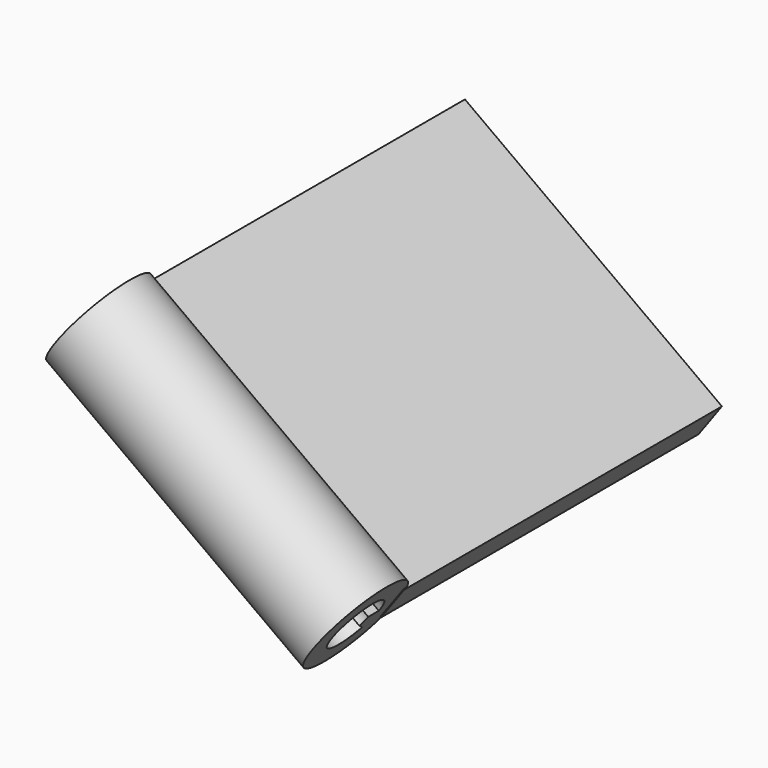
from build123d import *

# Parameters (mm, degrees)
BOX130_W                    = 120
BOX130_H                    = 150
BOX130_DEPTH                = 15
BOX130_PITCH_ANGLE          = 36
CYLINDER281_R               = 5
CYLINDER281_DEPTH           = 130
CYLINDER281_PLACEMENT_ANGLE = 126
CYLINDER280_W               = 11
CYLINDER280_H               = 120
CYLINDER280_ANGLE           = 50
CYLINDER280_PLACEMENT_ANGLE = 126
CYLINDER283_R               = 6
CYLINDER283_DEPTH           = 130
CYLINDER283_PLACEMENT_ANGLE = 126
CYLINDER282_W               = 11
CYLINDER282_H               = 120
CYLINDER282_ANGLE           = 90
CYLINDER282_PLACEMENT_ANGLE = 126
CYLINDER279_R               = 11
CYLINDER279_DEPTH           = 120
CYLINDER279_PLACEMENT_ANGLE = 126
CYLINDER278_R               = 20
CYLINDER278_DEPTH           = 120
CYLINDER278_PLACEMENT_ANGLE = 126


with BuildPart() as cubo093:
    # Box130 → Box130 (new body)
    with BuildSketch(Plane.XY):
        with Locations((60, 75)):
            Rectangle(BOX130_W, BOX130_H)
    extrude(amount=BOX130_DEPTH)


with BuildPart() as cubo093_1:
    # Box130 pitch: moved
    add(cubo093.part.rotate(Axis((0, 0, 0), (0, 1, 0)), BOX130_PITCH_ANGLE))


with BuildPart() as cubo093_2:
    # Box130 placement: moved
    add(cubo093_1.part.moved(Location((-296, 17, 92.9))))


with BuildPart() as cilindro168:
    # Cylinder281 → Cylinder281 (new body)
    with BuildSketch(Plane.XY):
        Circle(CYLINDER281_R)
    extrude(amount=CYLINDER281_DEPTH)


with BuildPart() as cilindro168_1:
    # Cylinder281 placement: moved
    add(cilindro168.part.moved(Location((-292, 0, 98.9))).rotate(Axis((-292, 0, 98.9), (0, 1, 0)), CYLINDER281_PLACEMENT_ANGLE))


with BuildPart() as cut298:
    # Cylinder280 → Cylinder280 (revolve)
    with BuildSketch(Plane.XZ):
        with Locations((5.5, 60)):
            Rectangle(CYLINDER280_W, CYLINDER280_H)
    revolve(axis=Axis((0, 0, 0), (0, 0, 1)), revolution_arc=CYLINDER280_ANGLE)


with BuildPart() as cut298_1:
    # Cylinder280 placement: moved
    add(cut298.part.moved(Location((-292, 0, 98.9))).rotate(Axis((-292, 0, 98.9), (0, 1, 0)), CYLINDER280_PLACEMENT_ANGLE))

    # Cut298: cut Cilindro168
    add(cilindro168_1.part, mode=Mode.SUBTRACT)


with BuildPart() as cilindro170:
    # Cylinder283 → Cylinder283 (new body)
    with BuildSketch(Plane.XY):
        Circle(CYLINDER283_R)
    extrude(amount=CYLINDER283_DEPTH)


with BuildPart() as cilindro170_1:
    # Cylinder283 placement: moved
    add(cilindro170.part.moved(Location((-292, 0, 98.9))).rotate(Axis((-292, 0, 98.9), (0, 1, 0)), CYLINDER283_PLACEMENT_ANGLE))


with BuildPart() as cut300:
    # Cylinder282 → Cylinder282 (revolve)
    with BuildSketch(Plane.XZ):
        with Locations((5.5, 60)):
            Rectangle(CYLINDER282_W, CYLINDER282_H)
    revolve(axis=Axis((0, 0, 0), (0, 0, 1)), revolution_arc=CYLINDER282_ANGLE)


with BuildPart() as cut300_1:
    # Cylinder282 placement: moved
    add(cut300.part.moved(Location((-292, 0, 98.9))).rotate(Axis((-292, 0, 98.9), (0, 1, 0)), CYLINDER282_PLACEMENT_ANGLE))

    # Cut299: cut Cilindro170
    add(cilindro170_1.part, mode=Mode.SUBTRACT)

    # Cut300: cut Cut298
    add(cut298_1.part, mode=Mode.SUBTRACT)


with BuildPart() as cilindro166:
    # Cylinder279 → Cylinder279 (new body)
    with BuildSketch(Plane.XY):
        Circle(CYLINDER279_R)
    extrude(amount=CYLINDER279_DEPTH)


with BuildPart() as cilindro166_1:
    # Cylinder279 placement: moved
    add(cilindro166.part.moved(Location((-292, 0, 98.9))).rotate(Axis((-292, 0, 98.9), (0, 1, 0)), CYLINDER279_PLACEMENT_ANGLE))


with BuildPart() as fusion079:
    # Cylinder278 → Cylinder278 (new body)
    with BuildSketch(Plane.XY):
        Circle(CYLINDER278_R)
    extrude(amount=CYLINDER278_DEPTH)


with BuildPart() as fusion079_1:
    # Cylinder278 placement: moved
    add(fusion079.part.moved(Location((-292, 0, 98.9))).rotate(Axis((-292, 0, 98.9), (0, 1, 0)), CYLINDER278_PLACEMENT_ANGLE))

    # Cut297: cut Cilindro166
    add(cilindro166_1.part, mode=Mode.SUBTRACT)

    # Fusion078: union Cut300
    add(cut300_1.part)

    # Fusion079: union Cubo093
    add(cubo093_2.part)


with BuildPart() as fusion079_2:
    # Fusion079 placement: moved
    add(fusion079_1.part.moved(Location((-524, 0, -105))))


solid = fusion079_2.part
